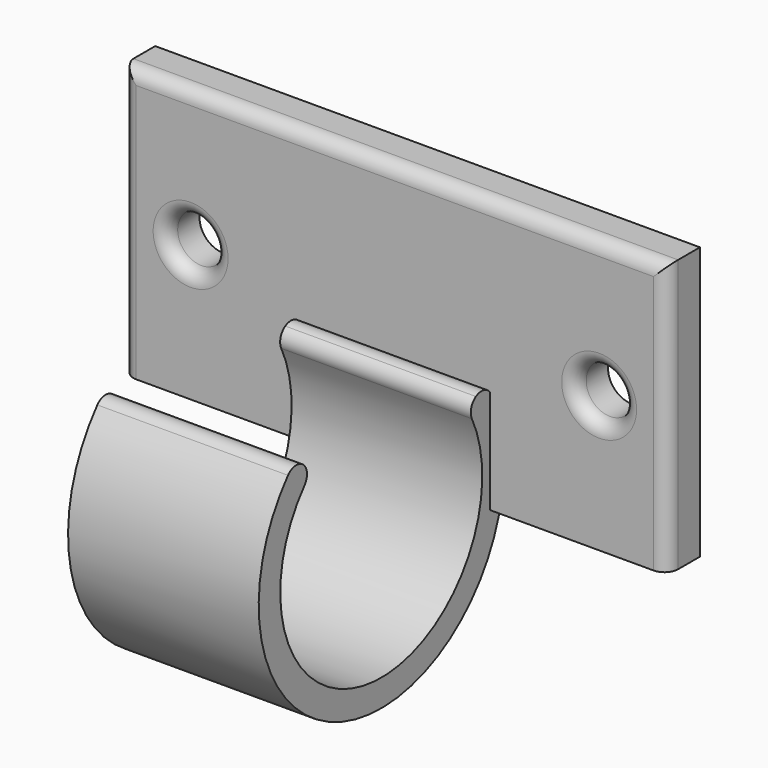
from build123d import *

# Parameters (mm, degrees)
F1_DEPTH = 5
F5_DEPTH = 7
F6_DEPTH = 7
F7_DEPTH = 20
F8_R     = 1.75
F9_DEPTH = 25
F10_R    = 1


with BuildPart() as f1:
    # F0 (on Top) → F1 (new body)
    with BuildSketch(Plane.XY):
        Polygon((20, 0), (0, 0), (-10, 0), (-10, -3), (-2.5, -3), (0, -3), (20.5, -3), (23.5, -3), (30, -3), (30, 0), align=None)
    extrude(amount=F1_DEPTH)

    # F4 (on offset) → F5 (join)
    with BuildSketch(Plane.YZ.offset(10)):
        with BuildLine():
            ThreePointArc((-20.146994, 9.90317), (-20.877413, 10.144748), (-21.563228, 9.796137))
            ThreePointArc((-21.563228, 9.796137), (-18.370933, -7.385119), (-2.218958, -0.714286))
            ThreePointArc((-2.218958, -0.714286), (-1.858257, -0.198216), (-1.260643, 0))
            Line((-1.260643, 0), (0, 0))
            Line((0, 0), (0, 5))
            Line((0, 5), (-1.260643, 5))
            ThreePointArc((-1.260643, 5), (-1.858257, 5.198216), (-2.218958, 5.714286))
            ThreePointArc((-2.218958, 5.714286), (-2.524724, 6.602571), (-2.903535, 7.462248))
            ThreePointArc((-2.903535, 7.462248), (-3.517026, 7.979991), (-4.313516, 7.879836))
            ThreePointArc((-4.313516, 7.879836), (-4.745518, 7.30587), (-4.681243, 6.590376))
            ThreePointArc((-4.681243, 6.590376), (-14.149841, -6.698411), (-20.055883, 8.512273))
            ThreePointArc((-20.055883, 8.512273), (-19.819174, 9.226211), (-20.146994, 9.90317))
        make_face()
    extrude(amount=-F5_DEPTH)

    # F4 (on offset) → F6 (join)
    with BuildSketch(Plane.YZ.offset(10)):
        with BuildLine():
            ThreePointArc((-20.146994, 9.90317), (-20.877413, 10.144748), (-21.563228, 9.796137))
            ThreePointArc((-21.563228, 9.796137), (-18.370933, -7.385119), (-2.218958, -0.714286))
            ThreePointArc((-2.218958, -0.714286), (-1.858257, -0.198216), (-1.260643, 0))
            Line((-1.260643, 0), (0, 0))
            Line((0, 0), (0, 5))
            Line((0, 5), (-1.260643, 5))
            ThreePointArc((-1.260643, 5), (-1.858257, 5.198216), (-2.218958, 5.714286))
            ThreePointArc((-2.218958, 5.714286), (-2.524724, 6.602571), (-2.903535, 7.462248))
            ThreePointArc((-2.903535, 7.462248), (-3.517026, 7.979991), (-4.313516, 7.879836))
            ThreePointArc((-4.313516, 7.879836), (-4.745518, 7.30587), (-4.681243, 6.590376))
            ThreePointArc((-4.681243, 6.590376), (-14.149841, -6.698411), (-20.055883, 8.512273))
            ThreePointArc((-20.055883, 8.512273), (-19.819174, 9.226211), (-20.146994, 9.90317))
        make_face()
    extrude(amount=F6_DEPTH)

    # F0 (on Top) → F7 (join)
    with BuildSketch(Plane.XY):
        Polygon((20, 0), (0, 0), (-10, 0), (-10, -3), (-2.5, -3), (0, -3), (20.5, -3), (23.5, -3), (30, -3), (30, 0), align=None)
    extrude(amount=F7_DEPTH)

    # F8 (on face) → F9 (cut)
    with BuildSketch(Plane.XZ.offset(3)):
        with Locations((-5, 10)):
            Circle(F8_R)
        with Locations((25, 10)):
            Circle(F8_R)
    extrude(amount=-F9_DEPTH, mode=Mode.SUBTRACT)

    # F10
    f10_edges = [f1.edges().sort_by_distance(p)[0] for p in [
        (10, -3, 20),
        (30, -3, 10),
        (-10, -3, 10),
        (-6.75, -3, 10),
        (23.25, -3, 10),
    ]]
    fillet(f10_edges, radius=F10_R)


solid = f1.part
